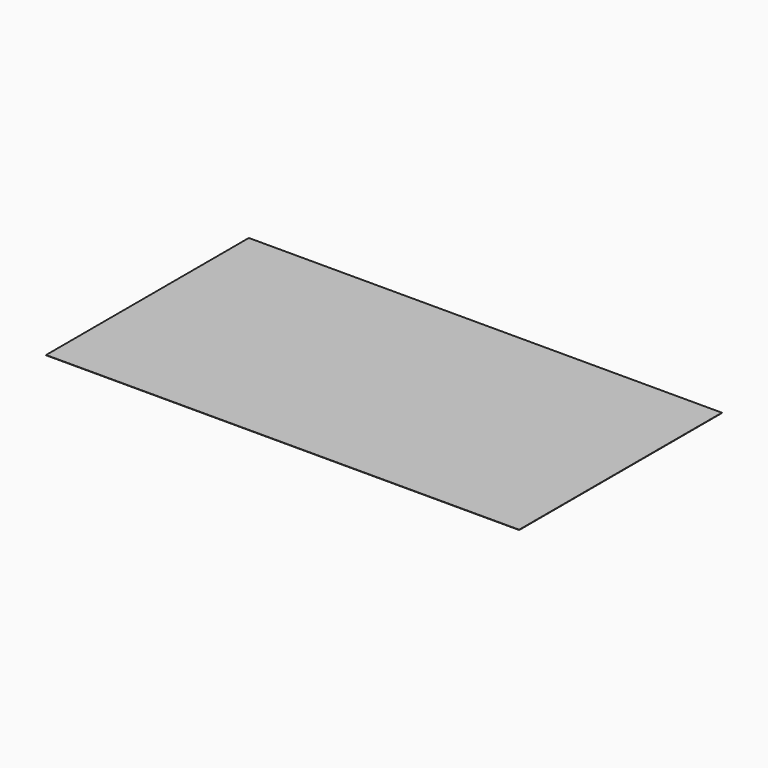
from build123d import *

# Parameters (mm, degrees)
SKETCH_W  = 17068.8
SKETCH_H  = 9144
PAD_DEPTH = 10


with BuildPart() as part:
    # Sketch → Pad (new body)
    with BuildSketch(Plane.XY):
        with Locations((-8534.4, -4572)):
            Rectangle(SKETCH_W, SKETCH_H)
    extrude(amount=PAD_DEPTH)


solid = part.part
